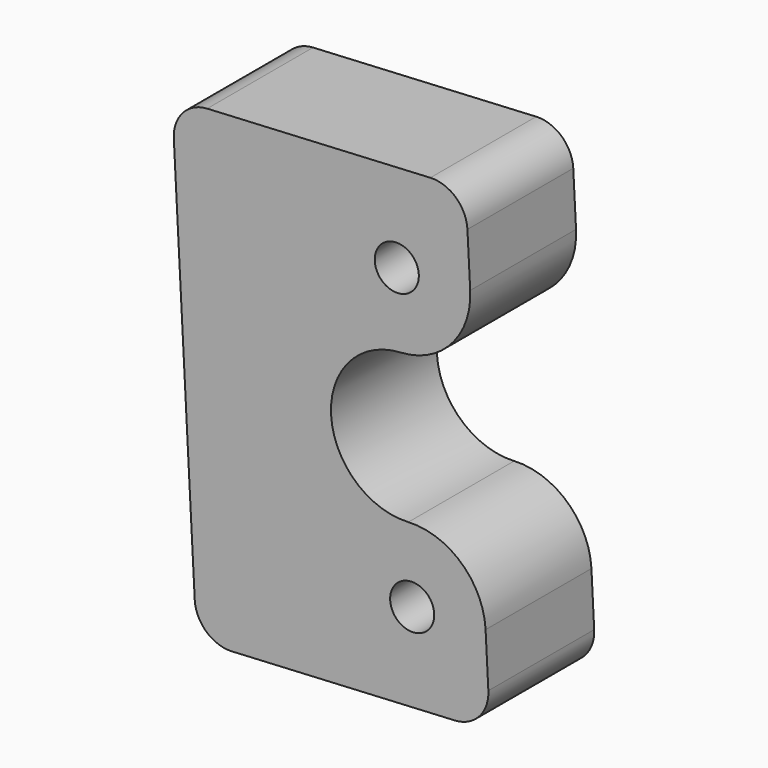
from build123d import *

# Parameters (mm, degrees)
F0_R     = 1.875
F1_DEPTH = 11.25


with BuildPart() as f1:
    # F0 (on Front) → F1 (new body)
    with BuildSketch(Plane.XZ):
        with BuildLine():
            ThreePointArc((-0.3271, 6.241435), (3.990456, 8.300803), (5.587235, 12.809969))
            Line((5.587235, 12.809969), (5.351723, 17.303802))
            ThreePointArc((5.351723, 17.303802), (4.363227, 19.376228), (2.198827, 20.142683))
            Line((2.198827, 20.142683), (-16.775134, 19.148299))
            ThreePointArc((-16.775134, 19.148299), (-18.847561, 18.159803), (-19.614015, 15.995403))
            Line((-19.614015, 15.995403), (-18.724304, -0.981299))
            Line((-18.724304, -0.981299), (-17.834593, -17.958001))
            ThreePointArc((-17.834593, -17.958001), (-16.846096, -20.030428), (-14.681696, -20.796882))
            Line((-14.681696, -20.796882), (4.292265, -19.802499))
            ThreePointArc((4.292265, -19.802499), (6.364692, -18.814002), (7.131146, -16.649602))
            Line((7.131146, -16.649602), (6.895634, -12.155769))
            ThreePointArc((6.895634, -12.155769), (4.836266, -7.838214), (0.3271, -6.241435))
            ThreePointArc((0.3271, -6.241435), (-6.241435, -0.3271), (-0.3271, 6.241435))
        make_face()
        with Locations((0.654199, -12.482869)):
            Circle(F0_R, mode=Mode.SUBTRACT)
        with Locations((-0.654199, 12.482869)):
            Circle(F0_R, mode=Mode.SUBTRACT)
    extrude(amount=-F1_DEPTH)


solid = f1.part
